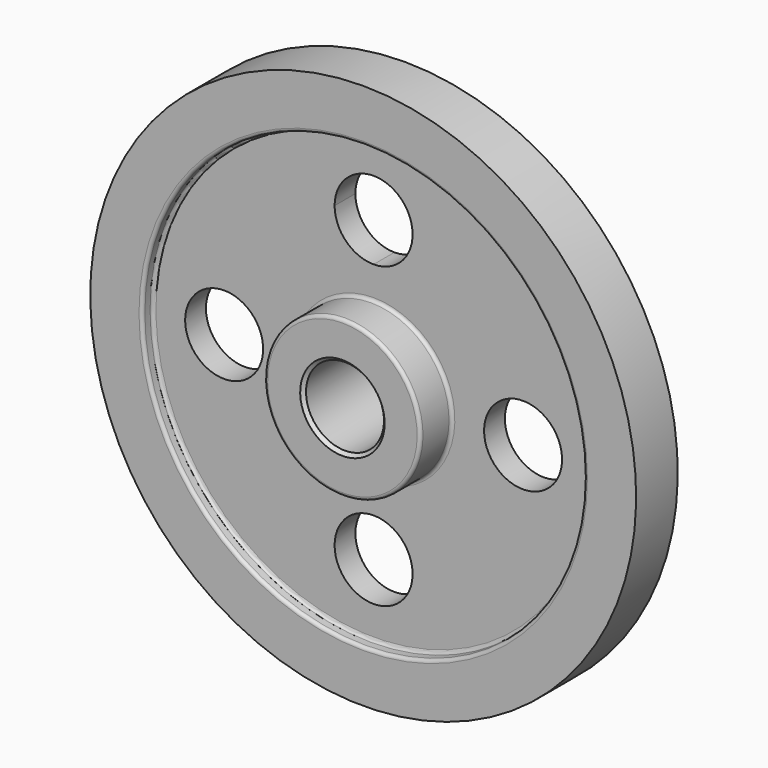
from build123d import *

# Parameters (mm, degrees)
F2_R     = 19.05
F3_DEPTH = 25.4
F4_R     = 1.5875
F5_SIZE  = 1.5875


with BuildPart() as f1:
    # F0 (on Right) → F1 (revolve)
    with BuildSketch(Plane.YZ):
        Polygon((-25.4, 19.05), (0, 19.05), (25.4, 19.05), (25.4, 38.1), (6.35, 38.1), (6.35, 107.95), (12.7, 107.95), (12.7, 133.35), (0, 133.35), (-12.7, 133.35), (-12.7, 107.95), (-6.35, 107.95), (-6.35, 38.1), (-25.4, 38.1), align=None)
    revolve(axis=Axis((0, 37.3761, 0), (0, 1, 0)))

    # F2 (on face) → F3 (cut)
    with BuildSketch(Plane(origin=(0, 6.35, 0), x_dir=(-1, 0, 0), z_dir=(0, 1, 0))):
        with Locations((0, -73.025)):
            Circle(F2_R)
        with Locations((-73.025, 0)):
            Circle(F2_R)
        with BuildLine():
            ThreePointArc((19.05, 73.025), (-13.470384, 86.495384), (0, 53.975))
            ThreePointArc((0, 53.975), (13.470384, 59.554616), (19.05, 73.025))
        make_face()
        with Locations((73.025, 0)):
            Circle(F2_R)
    extrude(amount=-F3_DEPTH, mode=Mode.SUBTRACT)

    # F4
    f4_edges = [f1.edges().sort_by_distance(p)[0] for p in [
        (0, -6.35, -38.1),
        (0, -25.4, -38.1),
        (0, -6.35, -107.95),
        (0, -12.7, -107.95),
        (0, 6.35, -38.1),
        (0, 25.4, -38.1),
        (0, 6.35, -107.95),
        (0, 12.7, -107.95),
    ]]
    fillet(f4_edges, radius=F4_R)

    # F5
    f5_edges = [f1.edges().sort_by_distance(p)[0] for p in [
        (0, -25.4, -19.05),
        (0, 25.4, -19.05),
    ]]
    chamfer(f5_edges, length=F5_SIZE)


solid = f1.part
